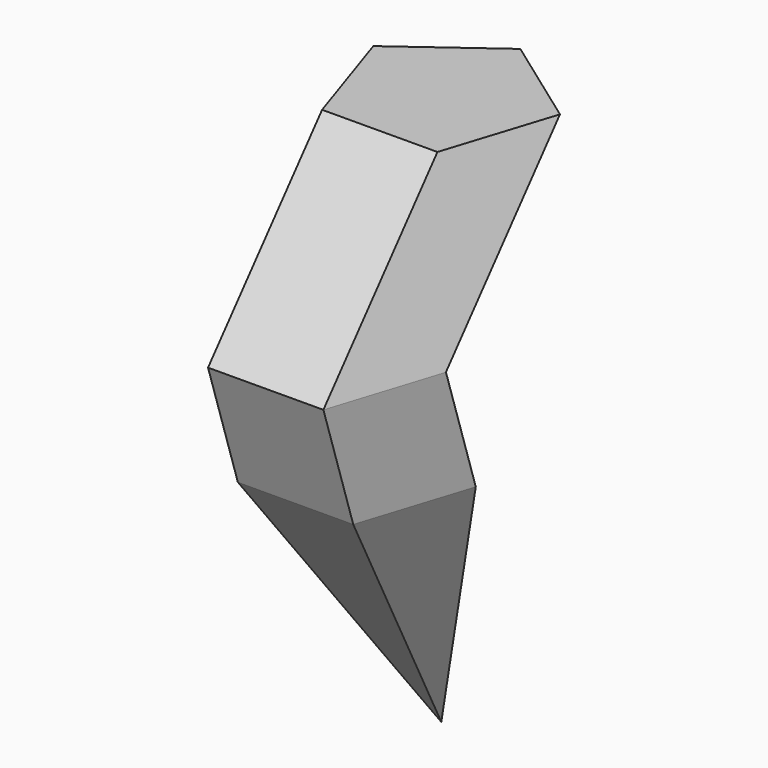
from build123d import *


with BuildPart() as f2:
    # F2: sweep along a path in F1
    with BuildLine(Plane.YZ) as f2_path:
        Line((0, 0), (-8.0247949809, 24.9660369009))
    # F0 (on Top) → F2 (sweep)
    with BuildSketch(Plane.XY):
        Polygon((-0.1032873551, 21.0342315395), (-20.0366605189, 6.4017028972), (-12.2800498667, -17.0777615631), (12.4471723178, -16.956339995), (19.9728254229, 6.5981671214), align=None)
    sweep(path=f2_path.line)

    # F3: sweep along a path in F1
    with BuildLine(Plane.YZ) as f3_path:
        Line((-8.0247949809, 24.9660369009), (22.6477645338, 61.3451190293))
    # F2_face (on face) → F3 (sweep)
    with BuildSketch(Plane(origin=(0, -8.0247949809, 24.9660369009), x_dir=(1, 0, 0), z_dir=(0, 0, 1))):
        Polygon((12.4471723178, -16.956339995), (19.9728254229, 6.5981671214), (-0.1032873551, 21.0342315395), (-20.0366605189, 6.4017028972), (-12.2800498667, -17.0777615631), align=None)
    sweep(path=f3_path.line)

    # F2_face1 (on face) → F4 section 0
    with BuildSketch(Plane(origin=(0, 0, 0), x_dir=(1, 0, 0), z_dir=(0, 0, -1)), mode=Mode.PRIVATE) as f4_s0:
        Polygon((19.9728254229, -6.5981671214), (12.4471723178, 16.956339995), (-12.2800498667, 17.0777615631), (-20.0366605189, -6.4017028972), (-0.1032873551, -21.0342315395), align=None)
    loft([f4_s0.sketch, Vertex(0, 22.2911071032, -57.4218854308)])


solid = f2.part
